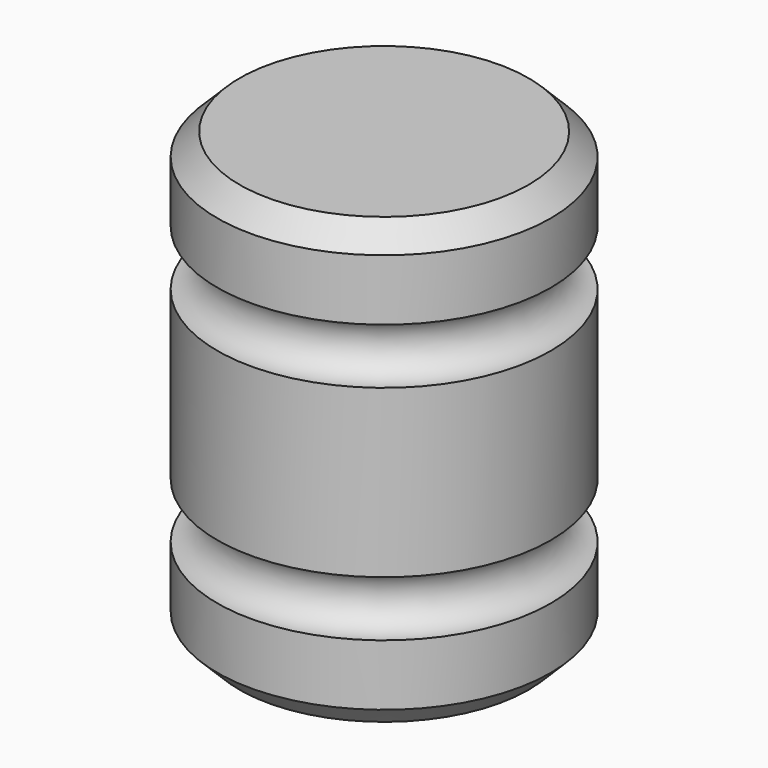
from build123d import *

# Parameters (mm, degrees)
F2_SIZE = 5.08
F3_SIZE = 5.08


with BuildPart() as f1:
    # F0 (on Front) → F1 (revolve)
    with BuildSketch(Plane.XZ):
        with BuildLine():
            Line((-38.611792028, 0), (-0.511792028, 0))
            Line((-0.511792028, 0), (-0.511792028, 19.05))
            ThreePointArc((-0.511792028, 19.05), (-6.861792028, 25.4), (-0.511792028, 31.75))
            Line((-0.511792028, 31.75), (-0.511792028, 69.85))
            ThreePointArc((-0.511792028, 69.85), (-6.861792028, 76.2), (-0.511792028, 82.55))
            Line((-0.511792028, 82.55), (-0.511792028, 101.6))
            Line((-0.511792028, 101.6), (-38.611792028, 101.6))
            Line((-38.611792028, 101.6), (-38.611792028, 0))
        make_face()
    revolve(axis=Axis((-38.611792028, 0, 50.8), (0, 0, 1)))

    # F2
    f2_edges = [f1.edges().sort_by_distance(p)[0] for p in [
        (-76.711792, 0, 101.6),
    ]]
    chamfer(f2_edges, length=F2_SIZE)

    # F3
    f3_edges = [f1.edges().sort_by_distance(p)[0] for p in [
        (-76.711792, 0, 0),
    ]]
    chamfer(f3_edges, length=F3_SIZE)


solid = f1.part
